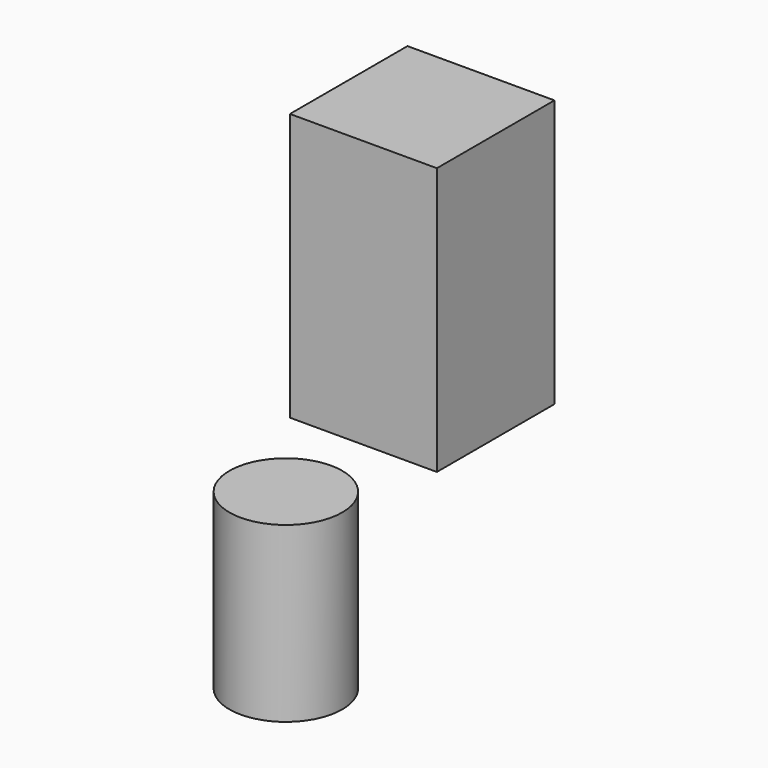
from build123d import *

# Parameters (mm, degrees)
F0_W     = 50
F0_H     = 50
F1_DEPTH = 91
F2_R     = 19.202938
F3_DEPTH = 59


with BuildPart() as f1:
    # F0 (on Top) → F1 (new body)
    with BuildSketch(Plane.XY):
        with Locations((-50.797425, 22.637345)):
            Rectangle(F0_W, F0_H)
    extrude(amount=F1_DEPTH)


with BuildPart() as f3:
    # F2 (on Top) → F3 (new body)
    with BuildSketch(Plane.XY):
        with Locations((-50.076704, -36.260143)):
            Circle(F2_R)
    extrude(amount=-F3_DEPTH)


solid = Compound([f1.part, f3.part])
